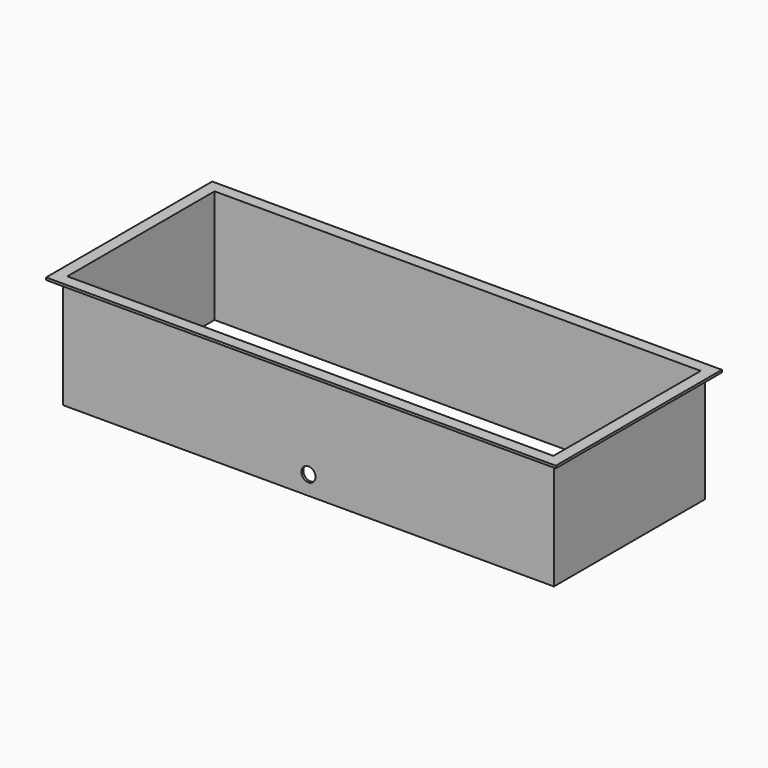
from build123d import *

# Parameters (mm, degrees)
F0_W     = 660.4
F0_H     = 254
F1_DEPTH = 152.4
F2_W     = 654.05
F2_H     = 247.65
F3_DEPTH = 152.401
F4_W     = 685.8
F4_H     = 279.4
F4_W_2   = 660.4
F4_H_2   = 254
F5_DEPTH = 3.175
F6_R     = 9.525
F7_DEPTH = 3.175


with BuildPart() as f1:
    # F0 (on Top) → F1 (new body)
    with BuildSketch(Plane.XY):
        Rectangle(F0_W, F0_H)
    extrude(amount=F1_DEPTH)

    # F2 (on face) → F3 (cut, through all)
    with BuildSketch(Plane.XY.offset(152.4)):
        Rectangle(F2_W, F2_H)
    extrude(amount=-F3_DEPTH, mode=Mode.SUBTRACT)

    # F4 (on face) → F5 (join)
    with BuildSketch(Plane.XY.offset(152.4)):
        Rectangle(F4_W, F4_H)
        Rectangle(F4_W_2, F4_H_2, mode=Mode.SUBTRACT)
    extrude(amount=-F5_DEPTH)

    # F6 (on face) → F7 (cut, through all)
    with BuildSketch(Plane.XZ.offset(127)):
        with Locations((0, 25.4)):
            Circle(F6_R)
    extrude(amount=-F7_DEPTH, mode=Mode.SUBTRACT)


solid = f1.part
